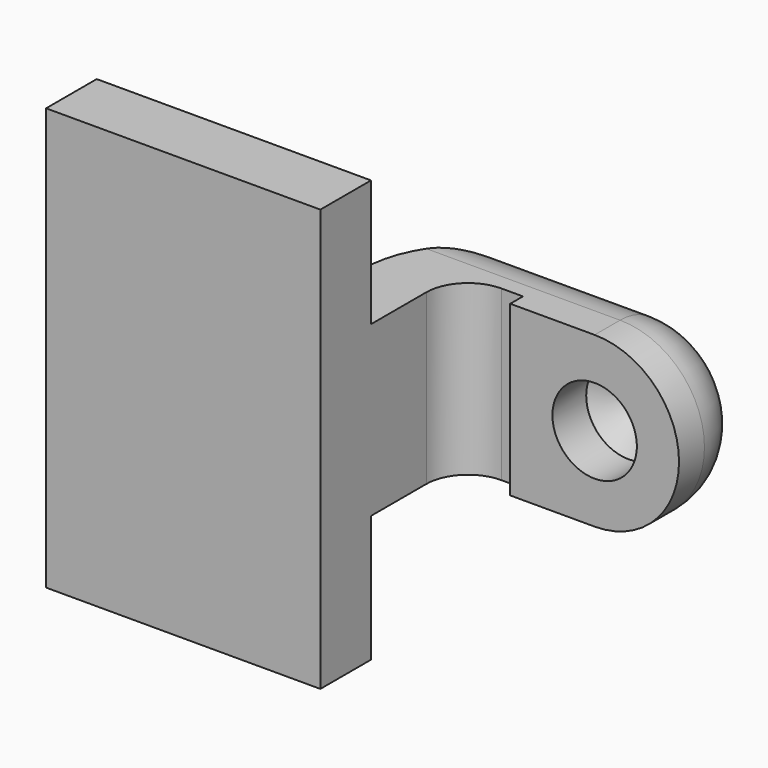
from build123d import *

# Parameters (mm, degrees)
F1_DEPTH = 63.5
F0_W     = 25.4
F0_H     = 19.05
F0_H_2   = 4.7498
F0_H_3   = 4.7752
F2_DEPTH = 25.4
F3_DEPTH = 3.175
F5_R     = 19.0095175901
F7_D     = 25.4
F7_DEPTH = 12.7
F7_TIP   = 7.6309298617


with BuildPart() as f1:
    # F0 (on Top) → F1 (new body, symmetric)
    with BuildSketch(Plane.XY):
        Polygon((41.275, -9.525), (41.275, 9.525), (22.225, 9.525), (-41.275, 9.525), (-41.275, -9.525), align=None)
    extrude(amount=F1_DEPTH, both=True)

    # F0 (on Top) → F2 (join, symmetric)
    with BuildSketch(Plane.XY):
        with BuildLine():
            Line((22.225, 9.525), (41.275, 9.525))
            Line((41.275, 9.525), (41.275, 30.3160412997))
            ThreePointArc((41.275, 30.3160412997), (44.9534924173, 39.1967075827), (53.8341587003, 42.8752))
            Line((53.8341587003, 42.8752), (60.325, 42.8752))
            Line((60.325, 42.8752), (60.325, 61.9252))
            Line((60.325, 61.9252), (53.8341587003, 61.9252))
            add(Edge.make_bspline(
                [(52.4478102945, 61.8947833874), (52.9089875046, 61.9054541447), (53.3711097525, 61.9155870845), (53.8341587003, 61.9252)],
                knots=[107.6548099731, 107.6548099731, 107.6548099731, 107.6548099731, 108.5888255242, 108.5888255242, 108.5888255242, 108.5888255242], degree=3))
            ThreePointArc((52.4478102945, 61.8947833874), (30.9982196949, 52.1714480331), (22.225, 30.3160412997))
            Line((22.225, 30.3160412997), (22.225, 9.525))
        make_face()
        with Locations((73.025, 52.4002)):
            Rectangle(F0_W, F0_H)
        with Locations((73.025, 64.3001)):
            Rectangle(F0_W, F0_H_2)
        with Locations((73.025, 40.4876)):
            Rectangle(F0_W, F0_H_3)
    extrude(amount=F2_DEPTH, both=True)

    # F0 (on Top) → F3 (join, symmetric)
    with BuildSketch(Plane.XY):
        with BuildLine():
            Line((-41.275, 9.525), (22.225, 9.525))
            Line((22.225, 9.525), (22.225, 30.3160412997))
            ThreePointArc((22.225, 30.3160412997), (30.9982196949, 52.1714480331), (52.4478102945, 61.8947833874))
            add(Edge.make_bspline(
                [(-41.275, 9.525), (-41.3081932608, 52.2900973959), (-0.7075626129, 60.6648698646), (52.4478102945, 61.8947833874)],
                knots=[0, 0, 0, 0, 107.6548099731, 107.6548099731, 107.6548099731, 107.6548099731], degree=3))
        make_face()
    extrude(amount=F3_DEPTH, both=True)

    # F0 (on Top) → F4 (revolve)
    with BuildSketch(Plane.XY):
        Polygon((85.725, 61.9252), (85.725, 42.8752), (85.725, 38.1), (111.125, 38.1), (111.125, 66.675), (85.725, 66.675), align=None)
    revolve(axis=Axis((85.725, 52.3875, 0), (0, 1, 0)))

    # F5
    f5_edges = [f1.edges().sort_by_distance(p)[0] for p in [
        (111.125, 66.675, 0),
    ]]
    fillet(f5_edges, radius=F5_R)

    # F7
    with Locations(Plane.XZ.offset(-38.1)):
        with Locations((85.725, 0)):
            Hole(F7_D / 2, depth=F7_DEPTH)
            with Locations((0, 0, -(F7_DEPTH + F7_TIP / 2))):  # 118° drill point
                Cone(0, F7_D / 2, F7_TIP, mode=Mode.SUBTRACT)


solid = f1.part
